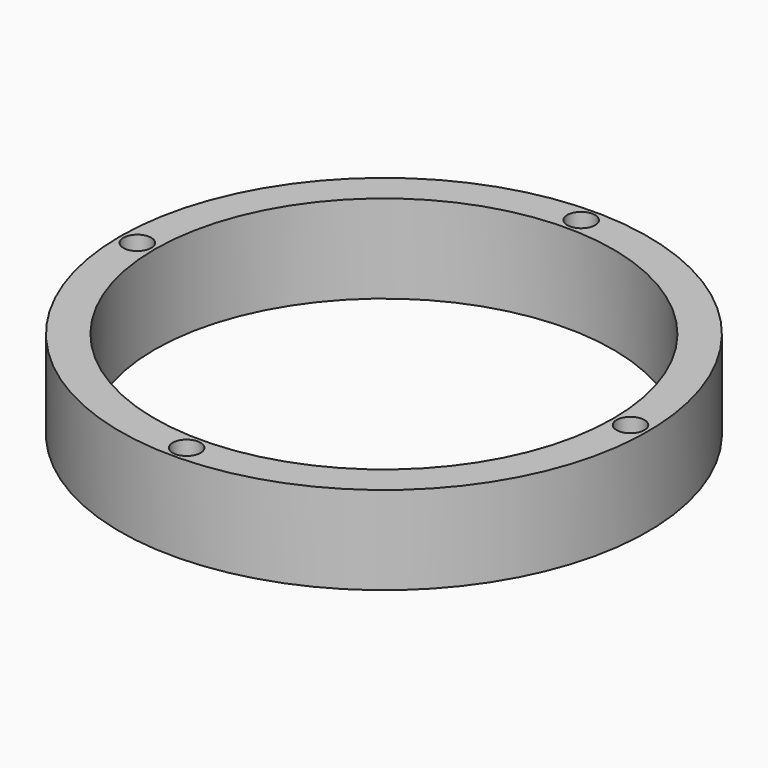
from build123d import *

# Parameters (mm, degrees)
F0_R     = 1
F1_DEPTH = 6.35


with BuildPart() as f1:
    # F0 (on Top) → F1 (new body)
    with BuildSketch(Plane.XY):
        with BuildLine():
            ThreePointArc((19, 0), (0, 19), (-19, 0))
            ThreePointArc((-19, 0), (0, -19), (19, 0))
        make_face()
        with Locations((0, -17.75)):
            Circle(F0_R, mode=Mode.SUBTRACT)
        with BuildLine():
            ThreePointArc((-18.75, 0), (-17.75, 1), (-16.75, 0))
            ThreePointArc((-16.75, 0), (-17.75, -1), (-18.75, 0))
        make_face(mode=Mode.SUBTRACT)
        with BuildLine():
            ThreePointArc((-16.5, 0), (0, 16.5), (16.5, 0))
            ThreePointArc((16.5, 0), (0, -16.5), (-16.5, 0))
        make_face(mode=Mode.SUBTRACT)
        with Locations((17.75, 0)):
            Circle(F0_R, mode=Mode.SUBTRACT)
        with Locations((0, 17.75)):
            Circle(F0_R, mode=Mode.SUBTRACT)
    extrude(amount=F1_DEPTH)


solid = f1.part
